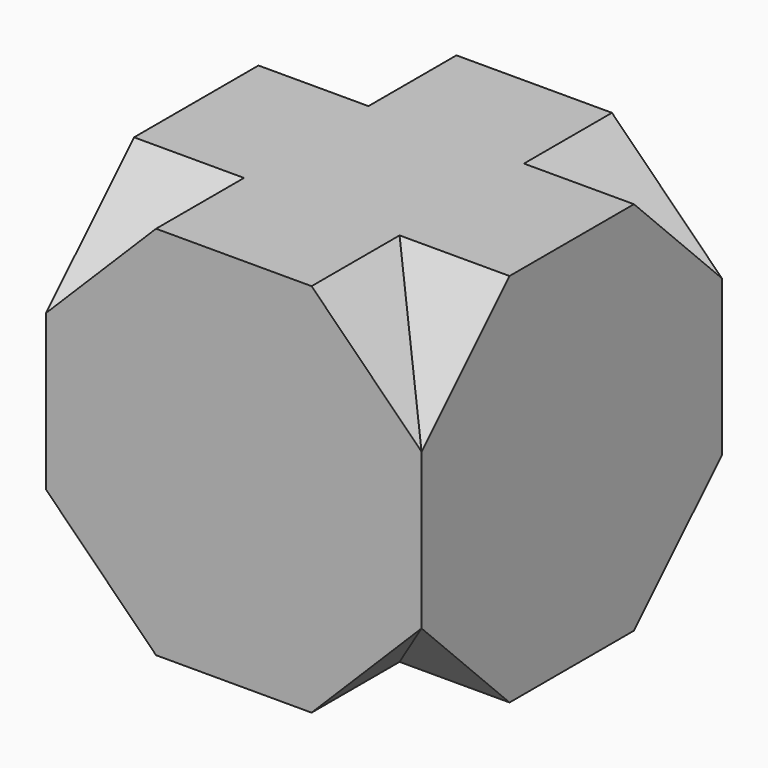
from build123d import *

# Parameters (mm, degrees)
F1_DEPTH = 152.4
F2_W     = 76.2
F2_H     = 31.5630734528
F3_DEPTH = 152.4


with BuildPart() as f1:
    # F0 (on Front) → F1 (new body)
    with BuildSketch(Plane.XZ):
        Polygon((-31.5630734528, -76.2), (31.5630734528, -76.2), (76.2, -31.5630734528), (76.2, 31.5630734528), (31.5630734528, 76.2), (-31.5630734528, 76.2), (-76.2, 31.5630734528), (-76.2, -31.5630734528), align=None)
    extrude(amount=F1_DEPTH)

    # F2 (on face) → F3 (join)
    with BuildSketch(Plane(origin=(-76.2, 0, 0), x_dir=(0, -1, 0), z_dir=(-1, 0, 0))):
        Polygon((152.4, -31.5630734528), (76.2, -31.5630734528), (76.2, -76.2), (107.7630734528, -76.2), align=None)
        Polygon((76.2, -31.5630734528), (0, -31.5630734528), (44.6369265472, -76.2), (76.2, -76.2), align=None)
        with Locations((38.1, -15.7815367264)):
            Rectangle(F2_W, F2_H)
        with Locations((114.3, -15.7815367264)):
            Rectangle(F2_W, F2_H)
        Polygon((0, 31.5630734528), (0, 0), (76.2, 0), (152.4, 0), (152.4, 31.5630734528), align=None)
        Polygon((44.6369265472, 76.2), (0, 31.5630734528), (152.4, 31.5630734528), (107.7630734528, 76.2), align=None)
    extrude(amount=-F3_DEPTH)


solid = f1.part
